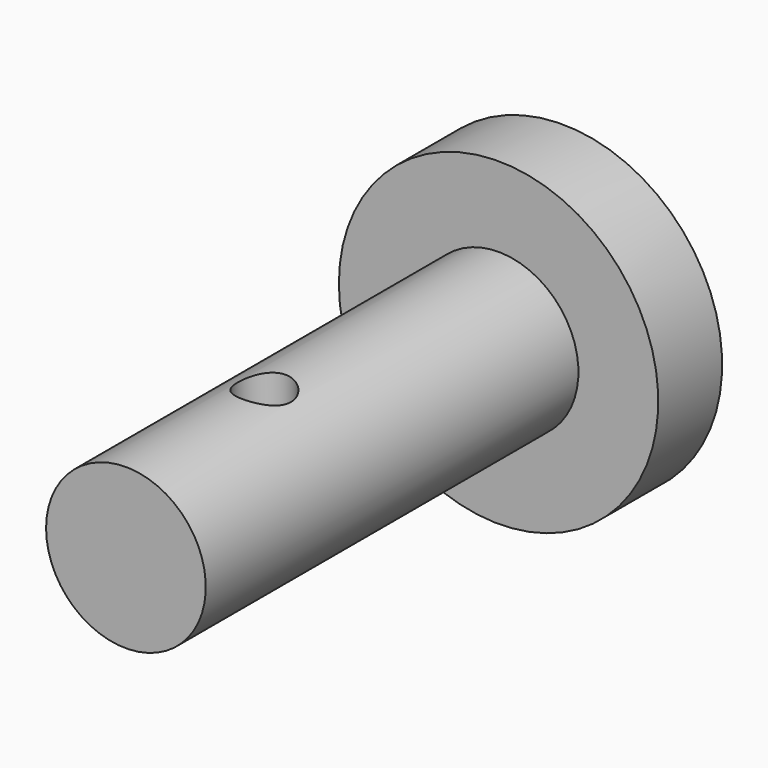
from build123d import *

# Parameters (mm, degrees)
F2_R     = 2
F3_DEPTH = 12.5


with BuildPart() as f1:
    # F0 (on Top) → F1 (revolve)
    with BuildSketch(Plane.XY):
        Polygon((0, 0), (0, 41), (-12, 41), (-12, 35), (-6, 35), (-6, 0), align=None)
    revolve(axis=Axis((0, 20.5, 0), (0, -1, 0)))

    # F2 (on Top) → F3 (cut, symmetric)
    with BuildSketch(Plane.XY):
        with Locations((0, 13)):
            Circle(F2_R)
    extrude(amount=F3_DEPTH, both=True, mode=Mode.SUBTRACT)


solid = f1.part
